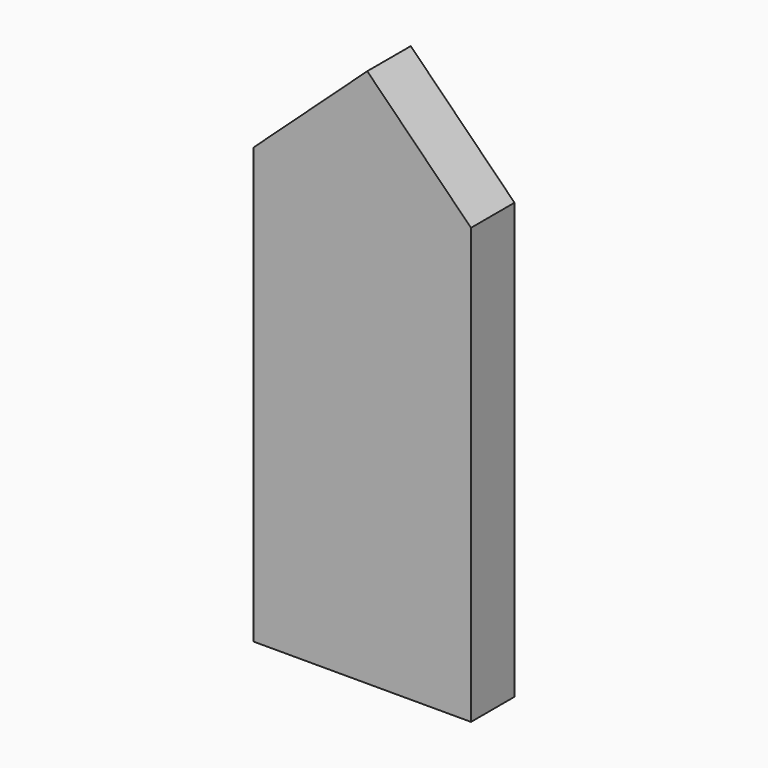
from build123d import *

# Parameters (mm, degrees)
F0_W     = 101.6
F0_H     = 203.2
F1_DEPTH = 25.4
F2_DEPTH = 25.4


with BuildPart() as f1:
    # F0 (on Front) → F1 (new body)
    with BuildSketch(Plane.XZ):
        with Locations((-50.657379, -28.101197)):
            Rectangle(F0_W, F0_H)
    extrude(amount=F1_DEPTH)

    # F0 (on Front) → F2 (join)
    with BuildSketch(Plane.XZ):
        Polygon((-48.321933, 122.144461), (-101.457379, 73.498803), (0.142621, 73.498803), align=None)
    extrude(amount=F2_DEPTH)


solid = f1.part
